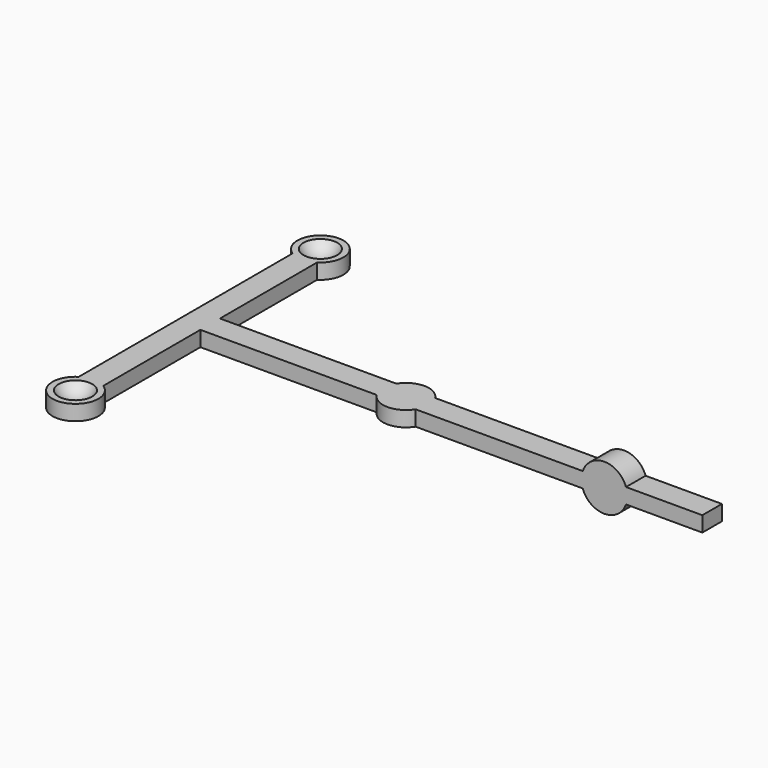
from build123d import *

# Parameters (mm, degrees)
PAD_DEPTH    = 0.25
SKETCH001_R  = 0.75
PAD001_DEPTH = 0.25
SKETCH002_R  = 0.75
PAD002_DEPTH = 0.25
SKETCH003_R  = 0.75
PAD003_DEPTH = 0.25
SKETCH004_R  = 0.75
PAD004_DEPTH = 0.4


with BuildPart() as part:
    # Sketch (on DatumPlane) → Pad (new body, symmetric)
    with BuildSketch(Plane.XY.offset(0.5675)):
        Polygon((-7.195606, 5), (-7.195606, 0), (-7.195606, -5), (-6.795606, -5), (-6.395606, -5), (-6.395606, -0.4), (10, -0.4), (10, 0.4), (-6.395606, 0.4), (-6.395606, 5), (-6.795606, 5), align=None)
    extrude(amount=PAD_DEPTH, both=True)

    # Sketch001 (on DatumPlane) → Pad001 (join, symmetric)
    with BuildSketch(Plane.XY.offset(0.5675)):
        Circle(SKETCH001_R)
    extrude(amount=PAD001_DEPTH, both=True)

    # Sketch002 (on DatumPlane) → Pad002 (join, symmetric)
    with BuildSketch(Plane.XY.offset(0.5675)):
        with Locations((-6.795606, 5)):
            Circle(SKETCH002_R)
    extrude(amount=PAD002_DEPTH, both=True)

    # Sketch003 (on DatumPlane) → Pad003 (join, symmetric)
    with BuildSketch(Plane.XY.offset(0.5675)):
        with Locations((-6.795606, -5)):
            Circle(SKETCH003_R)
    extrude(amount=PAD003_DEPTH, both=True)

    # Sphere → Sphere (revolve, cut)
    with BuildSketch(Plane.XZ):
        with BuildLine():
            ThreePointArc((0, -0.635), (0.635, 0), (0, 0.635))
            Line((0, 0.635), (0, -0.635))
        make_face()
    revolve(axis=Axis((0, 0, 0), (0, 0, 1)), mode=Mode.SUBTRACT)

    # Sphere001 → Sphere001 (revolve, cut)
    with BuildSketch(Plane(origin=(-6.795606, 5, 1.135), x_dir=(1, 0, 0), z_dir=(0, -1, 0))):
        with BuildLine():
            ThreePointArc((0, -0.635), (0.635, 0), (0, 0.635))
            Line((0, 0.635), (0, -0.635))
        make_face()
    revolve(axis=Axis((-6.795606, 5, 1.135), (0, 0, 1)), mode=Mode.SUBTRACT)

    # Sphere002 → Sphere002 (revolve, cut)
    with BuildSketch(Plane(origin=(-6.795606, -5, 1.135), x_dir=(1, 0, 0), z_dir=(0, -1, 0))):
        with BuildLine():
            ThreePointArc((0, -0.635), (0.635, 0), (0, 0.635))
            Line((0, 0.635), (0, -0.635))
        make_face()
    revolve(axis=Axis((-6.795606, -5, 1.135), (0, 0, 1)), mode=Mode.SUBTRACT)

    # Sketch004 (on DatumPlane) → Pad004 (join, symmetric)
    with BuildSketch(Plane(origin=(0, 0, 0.5675), x_dir=(1, 0, 0), z_dir=(0, -1, 0))):
        with Locations((6.8, 0)):
            Circle(SKETCH004_R)
    extrude(amount=PAD004_DEPTH, both=True)

    # Sphere003 → Sphere003 (revolve, cut)
    with BuildSketch(Plane(origin=(6.8, 0.7175, 0.5675), x_dir=(1, 0, 0), z_dir=(0, -1, 0))):
        with BuildLine():
            ThreePointArc((0, -0.635), (0.635, 0), (0, 0.635))
            Line((0, 0.635), (0, -0.635))
        make_face()
    revolve(axis=Axis((6.8, 0.7175, 0.5675), (0, 0, 1)), mode=Mode.SUBTRACT)


solid = part.part
